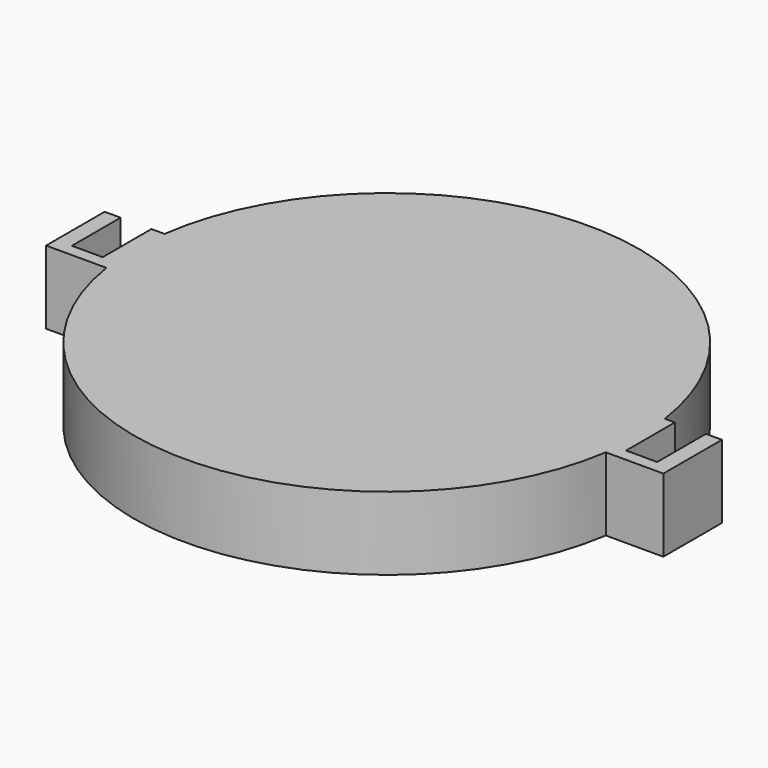
from build123d import *

# Parameters (mm, degrees)
F1_DEPTH = 2.54


with BuildPart() as f1:
    # F0 (on Top) → F1 (new body)
    with BuildSketch(Plane.XY):
        with BuildLine():
            ThreePointArc((8.6617718357, -1.3281105626), (8.7376563104, -0.6659813826), (8.763, 0))
            ThreePointArc((8.763, 0), (8.7419235528, 0.6074056285), (8.6787955957, 1.2118894374))
            Line((8.6787955957, 1.2118894374), (-8.6787955957, 1.2118894374))
            ThreePointArc((-8.6787955957, 1.2118894374), (-8.7628031879, -0.0587306529), (-8.6617718357, -1.3281105626))
            Line((-8.6617718357, -1.3281105626), (8.6617718357, -1.3281105626))
        make_face()
        with BuildLine():
            Line((-8.6787955957, 1.2118894374), (8.6787955957, 1.2118894374))
            ThreePointArc((8.6787955957, 1.2118894374), (0, 8.763), (-8.6787955957, 1.2118894374))
        make_face()
        with BuildLine():
            ThreePointArc((-8.6617718357, -1.3281105626), (0, -8.763), (8.6617718357, -1.3281105626))
            Line((8.6617718357, -1.3281105626), (-8.6617718357, -1.3281105626))
        make_face()
        with BuildLine():
            ThreePointArc((8.6787955957, 1.2118894374), (8.7419235528, 0.6074056285), (8.763, 0))
            ThreePointArc((8.763, 0), (8.7376563104, -0.6659813826), (8.6617718357, -1.3281105626))
            Line((8.6617718357, -1.3281105626), (10.6583032757, -1.3281105626))
            Line((10.6583032757, -1.3281105626), (10.6583032757, 1.2118894374))
            Line((10.6583032757, 1.2118894374), (10.1039223373, 1.2118894374))
            Line((10.1039223373, 1.2118894374), (10.1039223373, -0.9020056459))
            Line((10.1039223373, -0.9020056459), (9.0270256624, -0.9020056459))
            Line((9.0270256624, -0.9020056459), (9.0270256624, 1.2118894374))
            Line((9.0270256624, 1.2118894374), (8.6787955957, 1.2118894374))
        make_face()
        with BuildLine():
            ThreePointArc((-8.6617718357, -1.3281105626), (-8.7628031879, -0.0587306529), (-8.6787955957, 1.2118894374))
            Line((-8.6787955957, 1.2118894374), (-9.1322259977, 1.2118894374))
            Line((-9.1322259977, 1.2118894374), (-9.1322259977, 1.1553943541))
            Line((-9.1322259977, 1.1553943541), (-9.1322259977, -0.9020056459))
            Line((-9.1322259977, -0.9020056459), (-10.2012958378, -0.9020056459))
            Line((-10.2012958378, -0.9020056459), (-10.2012958378, 1.1553943541))
            Line((-10.2012958378, 1.1553943541), (-10.2012958378, 1.2118894374))
            Line((-10.2012958378, 1.2118894374), (-10.7550928369, 1.2118894374))
            Line((-10.7550928369, 1.2118894374), (-10.7550928369, -1.3281105626))
            Line((-10.7550928369, -1.3281105626), (-8.6617718357, -1.3281105626))
        make_face()
    extrude(amount=F1_DEPTH)


solid = f1.part
